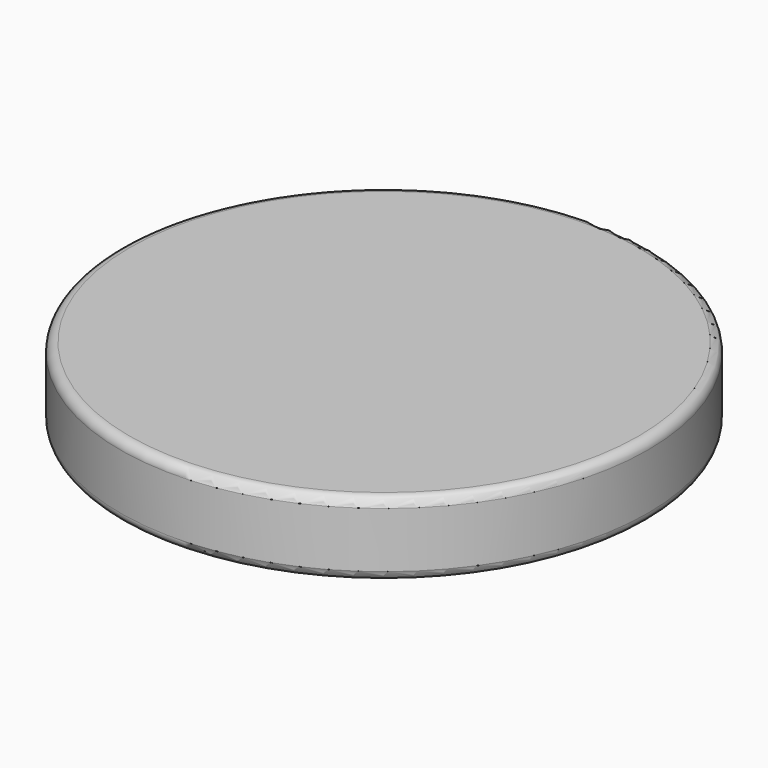
from build123d import *

# Parameters (mm, degrees)
SKETCH001_R  = 28.5
PAD_DEPTH    = 8
SKETCH_R     = 26.65
POCKET_DEPTH = 6
FILLET_R     = 1


with BuildPart() as part:
    # Sketch001 → Pad (new body)
    with BuildSketch(Plane.XY):
        Circle(SKETCH001_R)
    extrude(amount=PAD_DEPTH)

    # Sketch → Pocket (cut)
    with BuildSketch(Plane.XY):
        Circle(SKETCH_R)
    extrude(amount=POCKET_DEPTH, mode=Mode.SUBTRACT)

    # Fillet
    fillet_edges = [part.edges().sort_by_distance(p)[0] for p in [
        (-28.5, 0, 8),
        (-28.5, 0, 0),
        (-26.65, 0, 6),
    ]]
    fillet(fillet_edges, radius=FILLET_R)


solid = part.part
